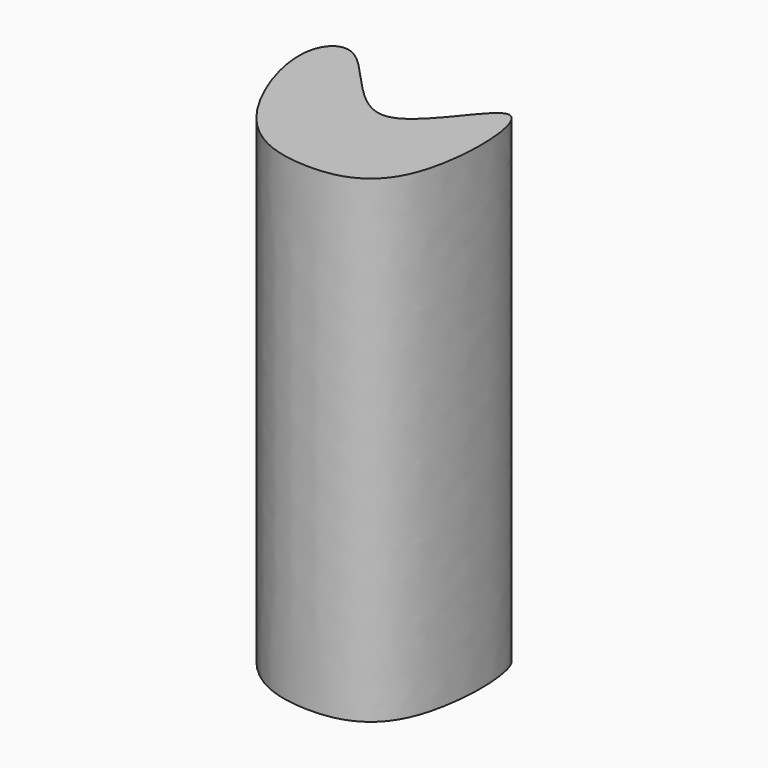
from build123d import *

# Parameters (mm, degrees)
F1_DEPTH = 254


with BuildPart() as f1:
    # F0 (on Top) → F1 (new body)
    with BuildSketch(Plane.XY):
        with BuildLine():
            add(Edge.make_bspline(
                [(-61.7390535772, 38.7549512088), (-65.3370386941, 22.7451906399), (-45.2337168154, -32.1938007759), (-1.2750107112, -47.3040108984), (51.1400559828, -36.9992369491), (47.0767265839, 82.6382351553), (-0.4385142017, -20.0985718015), (-43.8468631617, 59.6472817822), (-59.9099658342, 46.893744415), (-61.7390535772, 38.7549512088)],
                knots=[0, 0, 0, 0, 0.1675033015, 0.304307571, 0.4411480688, 0.6104176113, 0.7565592689, 0.9148472754, 1, 1, 1, 1], degree=3))
        make_face()
    extrude(amount=F1_DEPTH)


solid = f1.part
